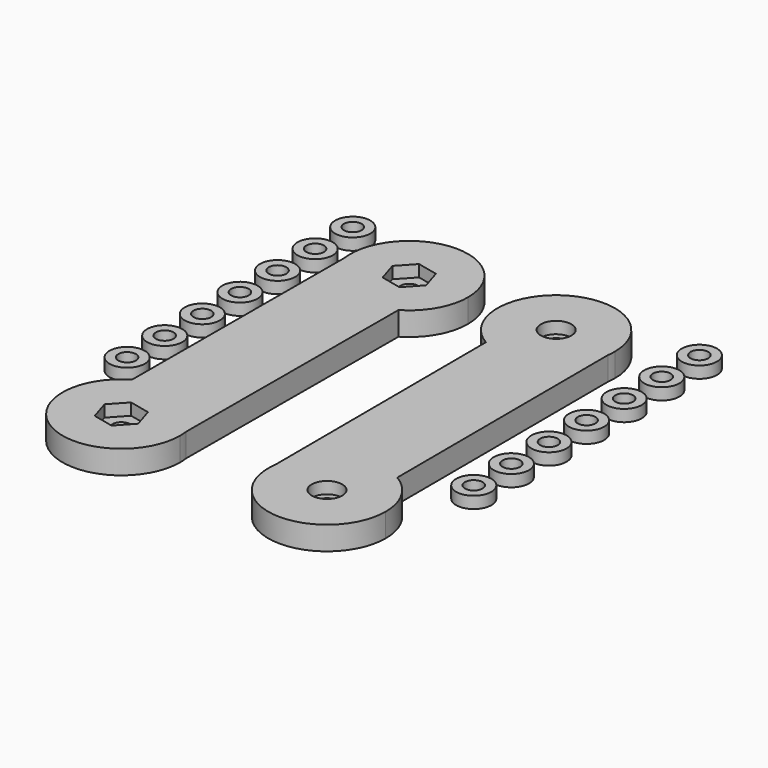
from build123d import *

# Parameters (mm, degrees)
F0_R     = 1.905
F1_DEPTH = 5.08
F3_DEPTH = 2.54
F4_R     = 3.302
F5_DEPTH = 2.54
F6_R     = 3.81
F6_R_2   = 1.905
F7_DEPTH = 2.54


with BuildPart() as f1:
    # F0 (on Top) → F1 (new body)
    with BuildSketch(Plane.XY):
        with BuildLine():
            ThreePointArc((-28.662997, -27.152754), (-28.530848, -49.123896), (-9.525, -38.1))
            ThreePointArc((-9.525, -38.1), (-9.555433, -37.221325), (-9.646586, -36.346862))
            ThreePointArc((-9.646586, -36.346862), (-16.696972, -26.666238), (-28.662997, -27.152754))
        make_face()
        with Locations((-22.225, -38.1)):
            Circle(F0_R, mode=Mode.SUBTRACT)
        with BuildLine():
            ThreePointArc((-28.662997, -27.152754), (-16.696972, -26.666238), (-9.646586, -36.346862))
            Line((-9.646586, -36.346862), (-9.437003, 20.802754))
            ThreePointArc((-9.437003, 20.802754), (-21.403028, 20.316238), (-28.453414, 29.996862))
            Line((-28.453414, 29.996862), (-28.662997, -27.152754))
        make_face()
        with BuildLine():
            ThreePointArc((-28.453414, 29.996862), (-21.403028, 20.316238), (-9.437003, 20.802754))
            ThreePointArc((-9.437003, 20.802754), (-4.851104, 25.444152), (-3.175, 31.75))
            ThreePointArc((-3.175, 31.75), (-16.753675, 44.419567), (-28.453414, 29.996862))
        make_face()
        with Locations((-15.875, 31.75)):
            Circle(F0_R, mode=Mode.SUBTRACT)
        with BuildLine():
            ThreePointArc((9.646586, -36.346862), (21.346325, -50.769567), (34.925, -38.1))
            ThreePointArc((34.925, -38.1), (33.248896, -31.794152), (28.662997, -27.152754))
            ThreePointArc((28.662997, -27.152754), (16.696972, -26.666238), (9.646586, -36.346862))
        make_face()
        with Locations((22.225, -38.1)):
            Circle(F0_R, mode=Mode.SUBTRACT)
        with BuildLine():
            ThreePointArc((9.646586, -36.346862), (16.696972, -26.666238), (28.662997, -27.152754))
            Line((28.662997, -27.152754), (28.453414, 29.996862))
            ThreePointArc((28.453414, 29.996862), (21.403028, 20.316238), (9.437003, 20.802754))
            Line((9.437003, 20.802754), (9.646586, -36.346862))
        make_face()
        with BuildLine():
            ThreePointArc((9.437003, 20.802754), (21.403028, 20.316238), (28.453414, 29.996862))
            ThreePointArc((28.453414, 29.996862), (28.544567, 30.871325), (28.575, 31.75))
            ThreePointArc((28.575, 31.75), (9.569152, 42.773896), (9.437003, 20.802754))
        make_face()
        with Locations((15.875, 31.75)):
            Circle(F0_R, mode=Mode.SUBTRACT)
    extrude(amount=F1_DEPTH)

    # F2 (on face) → F3 (cut)
    with BuildSketch(Plane.XY.offset(5.08)):
        Polygon((-14.520741, 27.410345), (-11.439619, 30.752995), (-12.793878, 35.09265), (-17.229259, 36.089655), (-20.310381, 32.747005), (-18.956122, 28.40735), align=None)
        Polygon((-20.870741, -42.439655), (-17.789619, -39.097005), (-19.143878, -34.75735), (-23.579259, -33.760345), (-26.660381, -37.102995), (-25.306122, -41.44265), align=None)
    extrude(amount=-F3_DEPTH, mode=Mode.SUBTRACT)

    # F4 (on face) → F5 (cut)
    with BuildSketch(Plane.XY.offset(5.08)):
        with Locations((15.875, 31.75)):
            Circle(F4_R)
        with Locations((22.225, -38.1)):
            Circle(F4_R)
    extrude(amount=-F5_DEPTH, mode=Mode.SUBTRACT)


with BuildPart() as f7:
    # F6 (on Top) → F7 (new body)
    with BuildSketch(Plane.XY):
        with Locations((37.460648, 43.468782)):
            Circle(F6_R)
        with Locations((37.460648, 43.468782)):
            Circle(F6_R_2, mode=Mode.SUBTRACT)
        with Locations((37.460648, 33.308782)):
            Circle(F6_R)
        with Locations((37.460648, 33.308782)):
            Circle(F6_R_2, mode=Mode.SUBTRACT)
        with Locations((37.460648, 23.148782)):
            Circle(F6_R)
        with Locations((37.460648, 23.148782)):
            Circle(F6_R_2, mode=Mode.SUBTRACT)
        with Locations((37.460648, 12.988782)):
            Circle(F6_R)
        with Locations((37.460648, 12.988782)):
            Circle(F6_R_2, mode=Mode.SUBTRACT)
        with Locations((37.460648, 2.828782)):
            Circle(F6_R)
        with Locations((37.460648, 2.828782)):
            Circle(F6_R_2, mode=Mode.SUBTRACT)
        with Locations((37.460648, -7.331218)):
            Circle(F6_R)
        with Locations((37.460648, -7.331218)):
            Circle(F6_R_2, mode=Mode.SUBTRACT)
        with Locations((37.460648, -17.491218)):
            Circle(F6_R)
        with Locations((37.460648, -17.491218)):
            Circle(F6_R_2, mode=Mode.SUBTRACT)
        with Locations((-37.460648, -17.491218)):
            Circle(F6_R)
        with Locations((-37.460648, -17.491218)):
            Circle(F6_R_2, mode=Mode.SUBTRACT)
        with Locations((-37.460648, 43.468782)):
            Circle(F6_R)
        with Locations((-37.460648, 43.468782)):
            Circle(F6_R_2, mode=Mode.SUBTRACT)
        with Locations((-37.460648, -7.331218)):
            Circle(F6_R)
        with Locations((-37.460648, -7.331218)):
            Circle(F6_R_2, mode=Mode.SUBTRACT)
        with Locations((-37.460648, 2.828782)):
            Circle(F6_R)
        with Locations((-37.460648, 2.828782)):
            Circle(F6_R_2, mode=Mode.SUBTRACT)
        with Locations((-37.460648, 33.308782)):
            Circle(F6_R)
        with Locations((-37.460648, 33.308782)):
            Circle(F6_R_2, mode=Mode.SUBTRACT)
        with Locations((-37.460648, 23.148782)):
            Circle(F6_R)
        with Locations((-37.460648, 23.148782)):
            Circle(F6_R_2, mode=Mode.SUBTRACT)
        with Locations((-37.460648, 12.988782)):
            Circle(F6_R)
        with Locations((-37.460648, 12.988782)):
            Circle(F6_R_2, mode=Mode.SUBTRACT)
    extrude(amount=F7_DEPTH)


solid = Compound([f1.part, f7.part])
